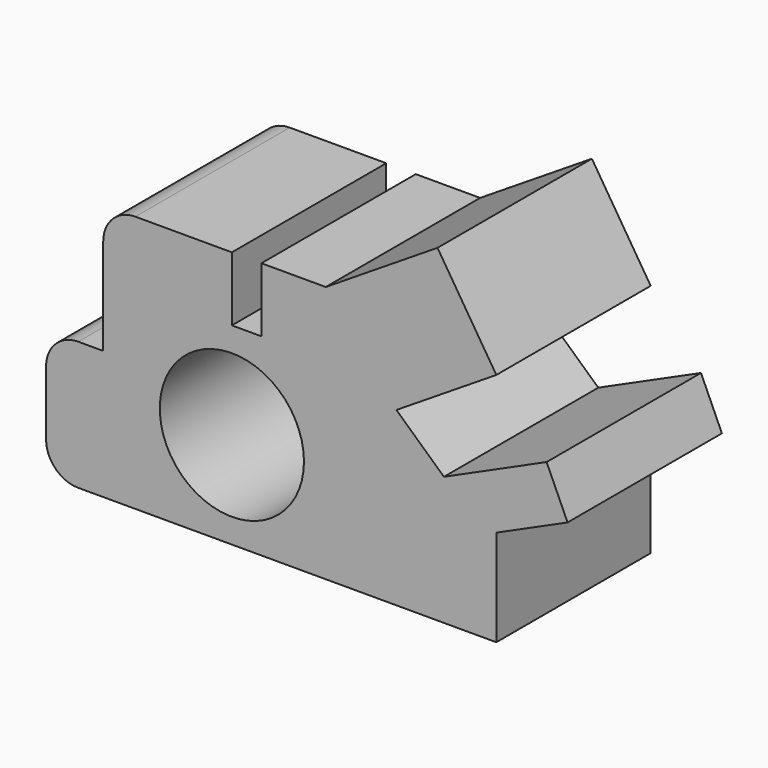
from build123d import *

# Parameters (mm, degrees)
F0_R     = 11.20644
F1_DEPTH = 30


with BuildPart() as f1:
    # F0 (on Front) → F1 (new body)
    with BuildSketch(Plane.XZ):
        with BuildLine():
            Line((-46.625002, -15), (18.374998, -15))
            Line((18.374998, -15), (18.374998, 0))
            Line((18.374998, 0), (29.448327, 5))
            Line((29.448327, 5), (26.193243, 12.208923))
            Line((26.193243, 12.208923), (10.227887, 5))
            Line((10.227887, 5), (2.843751, 11.743481))
            Line((2.843751, 11.743481), (18.374998, 21.587231))
            Line((18.374998, 21.587231), (9.231542, 36.01357))
            Line((9.231542, 36.01357), (-8.145421, 25))
            Line((-8.145421, 25), (-18.145421, 25))
            Line((-18.145421, 25), (-18.145421, 15))
            Line((-18.145421, 15), (-22.739174, 15))
            Line((-22.739174, 15), (-22.739174, 25))
            Line((-22.739174, 25), (-37.739174, 25))
            ThreePointArc((-37.739174, 25), (-41.274708, 23.535534), (-42.739174, 20))
            Line((-42.739174, 20), (-42.739174, 5))
            Line((-42.739174, 5), (-46.625002, 5))
            ThreePointArc((-46.625002, 5), (-50.160536, 3.535534), (-51.625002, 0))
            Line((-51.625002, 0), (-51.625002, -10))
            ThreePointArc((-51.625002, -10), (-50.160536, -13.535534), (-46.625002, -15))
        make_face()
        with Locations((-22.739174, 0)):
            Circle(F0_R, mode=Mode.SUBTRACT)
    extrude(amount=F1_DEPTH)


solid = f1.part
